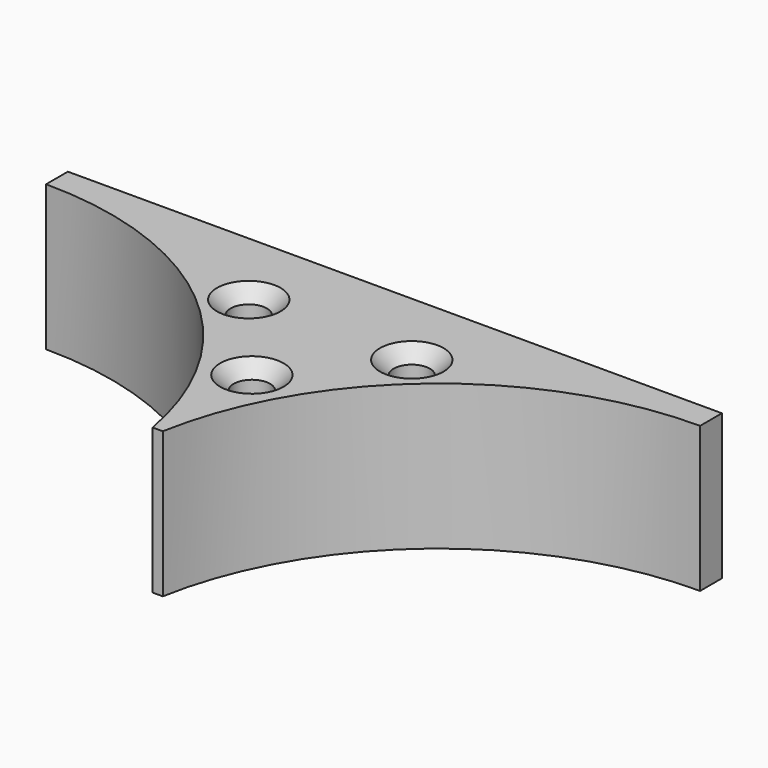
from build123d import *

# Parameters (mm, degrees)
F0_R     = 2
F1_DEPTH = 16
F2_SIZE  = 1.5


with BuildPart() as f1:
    # F0 (on Top) → F1 (new body)
    with BuildSketch(Plane.XY):
        with BuildLine():
            ThreePointArc((-36, 36), (-12.900518, 27.611844), (-0.565595, 6.35633))
            Line((-0.565595, 6.35633), (0.565595, 6.35633))
            ThreePointArc((0.565595, 6.35633), (12.900518, 27.611844), (36, 36))
            Line((36, 36), (36, 39))
            Line((36, 39), (0, 39))
            Line((0, 39), (-36, 39))
            Line((-36, 39), (-36, 36))
        make_face()
        with Locations((0, 19.319687)):
            Circle(F0_R, mode=Mode.SUBTRACT)
        with Locations((-8.97405, 30.105054)):
            Circle(F0_R, mode=Mode.SUBTRACT)
        with Locations((8.97405, 30.105054)):
            Circle(F0_R, mode=Mode.SUBTRACT)
    extrude(amount=F1_DEPTH)

    # F2
    f2_edges = [f1.edges().sort_by_distance(p)[0] for p in [
        (-10.97405, 30.105054, 16),
        (-2, 19.319687, 16),
        (6.97405, 30.105054, 16),
    ]]
    chamfer(f2_edges, length=F2_SIZE)


solid = f1.part
